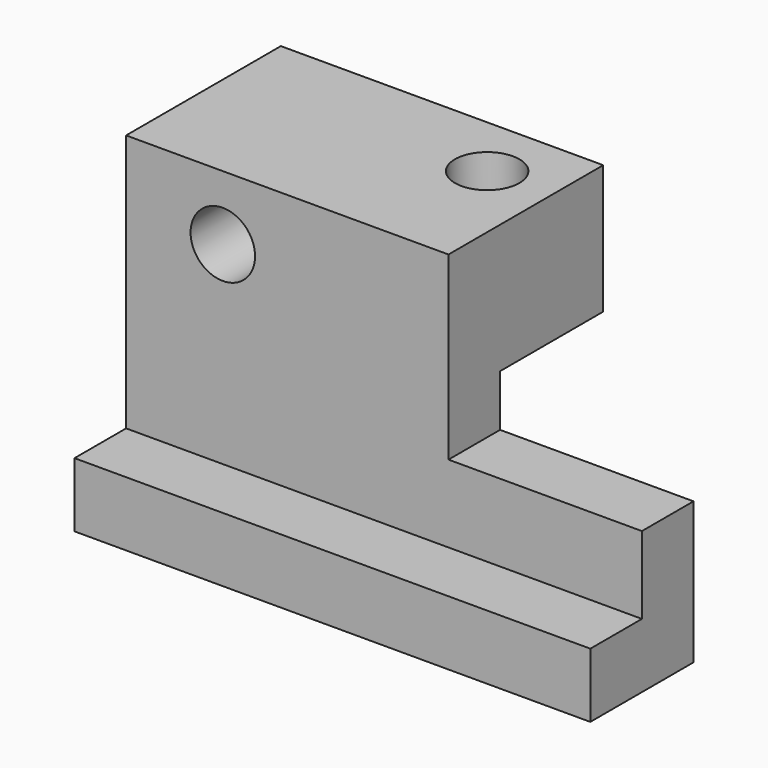
from build123d import *

# Parameters (mm, degrees)
F0_W      = 31.75
F0_H      = 19.05
F1_DEPTH  = 12.7
F2_W      = 50.8
F2_H      = 12.7
F3_DEPTH  = 6.35
F4_W      = 19.05
F4_H      = 5.085397
F5_DEPTH  = 6.35
F6_W      = 12.7
F6_H      = 6.35
F7_DEPTH  = 50.8
F9_R      = 3.175
F10_DEPTH = 12.7
F8_R      = 3.175
F11_DEPTH = 19.05


with BuildPart() as f1:
    # F0 (on Top) → F1 (new body)
    with BuildSketch(Plane.XY):
        with Locations((72.506752, -19.890864)):
            Rectangle(F0_W, F0_H)
    extrude(amount=F1_DEPTH)

    # F2 (on face) → F3 (join)
    with BuildSketch(Plane.XZ.offset(29.415864)):
        with Locations((82.031752, -6.35)):
            Rectangle(F2_W, F2_H)
    extrude(amount=-F3_DEPTH)

    # F4 (on face) → F5 (cut)
    with BuildSketch(Plane.XZ.offset(29.415864)):
        with Locations((97.906752, -2.542698)):
            Rectangle(F4_W, F4_H)
    extrude(amount=-F5_DEPTH, mode=Mode.SUBTRACT)

    # F6 (on face) → F7 (join)
    with BuildSketch(Plane.YZ.offset(107.431752)):
        with Locations((-29.415864, -15.875)):
            Rectangle(F6_W, F6_H)
    extrude(amount=-F7_DEPTH)

    # F9 (on face) → F10 (cut)
    with BuildSketch(Plane.XY.offset(12.7)):
        with Locations((82.031752, -16.715864)):
            Circle(F9_R)
    extrude(amount=-F10_DEPTH, mode=Mode.SUBTRACT)

    # F8 (on face) → F11 (cut)
    with BuildSketch(Plane.XZ.offset(29.415864)):
        with Locations((66.156752, 6.35)):
            Circle(F8_R)
    extrude(amount=-F11_DEPTH, mode=Mode.SUBTRACT)


solid = f1.part
